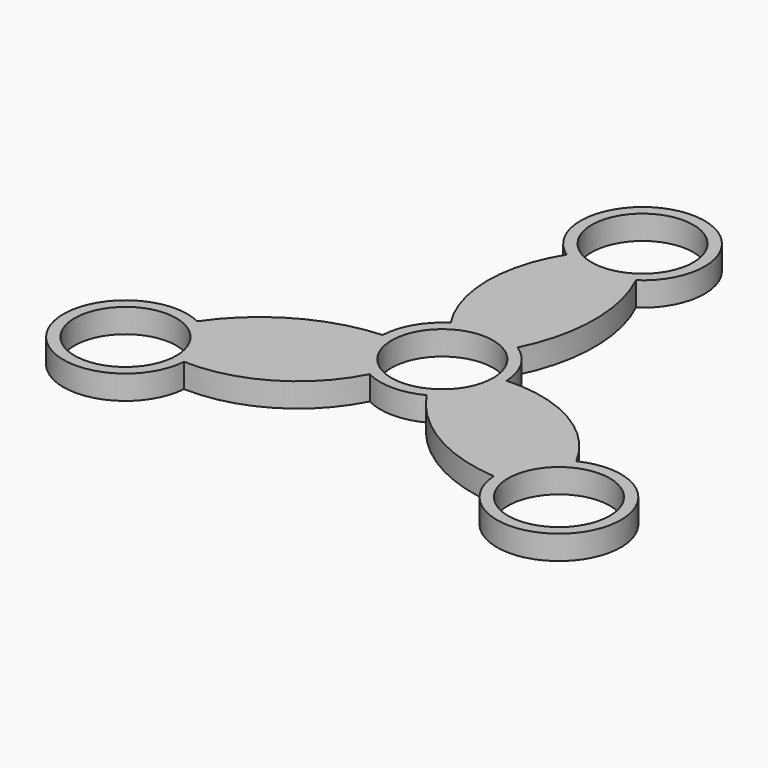
from build123d import *

# Parameters (mm, degrees)
F0_R     = 11.2522
F1_DEPTH = 5.334


with BuildPart() as f1:
    # F0 (on Top) → F1 (new body)
    with BuildSketch(Plane.XY):
        with BuildLine():
            ThreePointArc((7.409094, 11.557995), (11.29313, 27.750714), (7.660926, 44.001776))
            ThreePointArc((7.660926, 44.001776), (0, 69.123283), (-7.660926, 44.001776))
            ThreePointArc((-7.660926, 44.001776), (-12.282448, 27.743035), (-7.409094, 11.557995))
            ThreePointArc((-7.409094, 11.557995), (-11.889552, 6.864436), (-13.714064, 0.637466))
            ThreePointArc((-13.714064, 0.637466), (-11.889552, -6.864436), (-6.30497, -12.195461))
            ThreePointArc((-6.30497, -12.195461), (0, -13.728872), (6.30497, -12.195461))
            ThreePointArc((6.30497, -12.195461), (11.889552, -6.864436), (13.714064, 0.637466))
            ThreePointArc((13.714064, 0.637466), (11.889552, 6.864436), (7.409094, 11.557995))
        make_face()
        Circle(F0_R, mode=Mode.SUBTRACT)
        with Locations((0, 55.394411)):
            Circle(F0_R, mode=Mode.SUBTRACT)
        with BuildLine():
            ThreePointArc((-6.30497, -12.195461), (-11.889552, -6.864436), (-13.714064, 0.637466))
            ThreePointArc((-13.714064, 0.637466), (-29.679389, -4.09522), (-41.937119, -15.366332))
            ThreePointArc((-41.937119, -15.366332), (-59.862519, -34.561641), (-34.276193, -28.635444))
            ThreePointArc((-34.276193, -28.635444), (-17.884949, -24.50843), (-6.30497, -12.195461))
        make_face()
        with Locations((-47.972967, -27.697206)):
            Circle(F0_R, mode=Mode.SUBTRACT)
        with BuildLine():
            ThreePointArc((41.937119, -15.366332), (30.167397, -3.234606), (13.714064, 0.637466))
            ThreePointArc((13.714064, 0.637466), (11.889552, -6.864436), (6.30497, -12.195461))
            ThreePointArc((6.30497, -12.195461), (18.386259, -23.655495), (34.276193, -28.635444))
            ThreePointArc((34.276193, -28.635444), (59.862519, -34.561641), (41.937119, -15.366332))
        make_face()
        with Locations((47.972967, -27.697206)):
            Circle(F0_R, mode=Mode.SUBTRACT)
    extrude(amount=F1_DEPTH)


solid = f1.part
